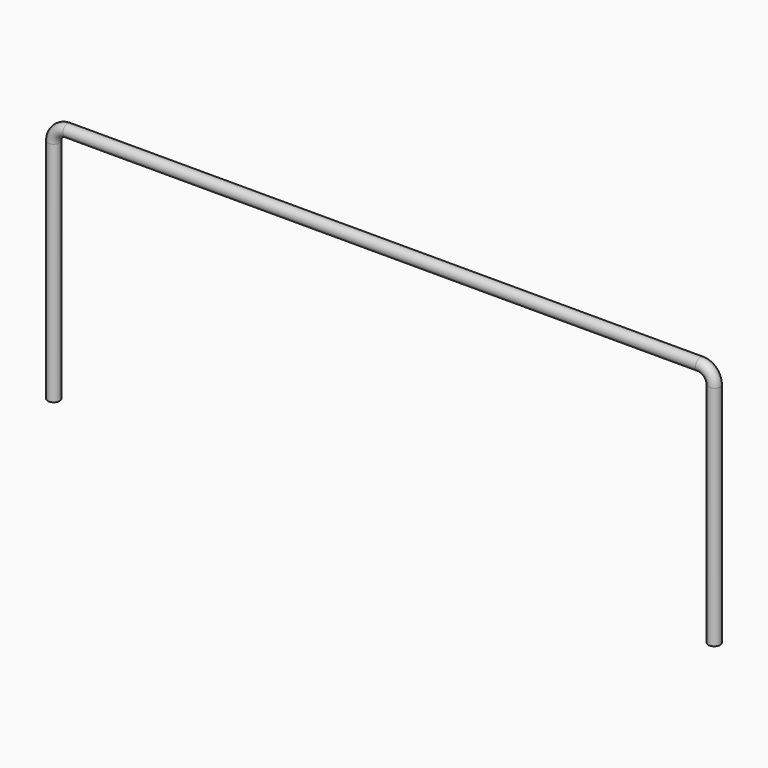
from build123d import *


with BuildPart() as f3:
    # F3: sweep along a path in F0
    with BuildLine(Plane.XZ) as f3_path:
        Line((0, -992), (0, -80))
        ThreePointArc((0, -80), (23.431458, -23.431458), (80, 0))
        Line((80, 0), (2620, 0))
        ThreePointArc((2620, 0), (2676.568542, -23.431458), (2700, -80))
        Line((2700, -80), (2700, -992))
    # F2 (on face) → F3 (sweep)
    with BuildSketch(Plane(origin=(0, 0, -992), x_dir=(1, 0, 0), z_dir=(0, 0, -1))):
        with BuildLine():
            ThreePointArc((0, 0), (24, -24), (48, 0))
            ThreePointArc((48, 0), (24, 24), (0, 0))
        make_face()
    sweep(path=f3_path.line)


solid = f3.part
